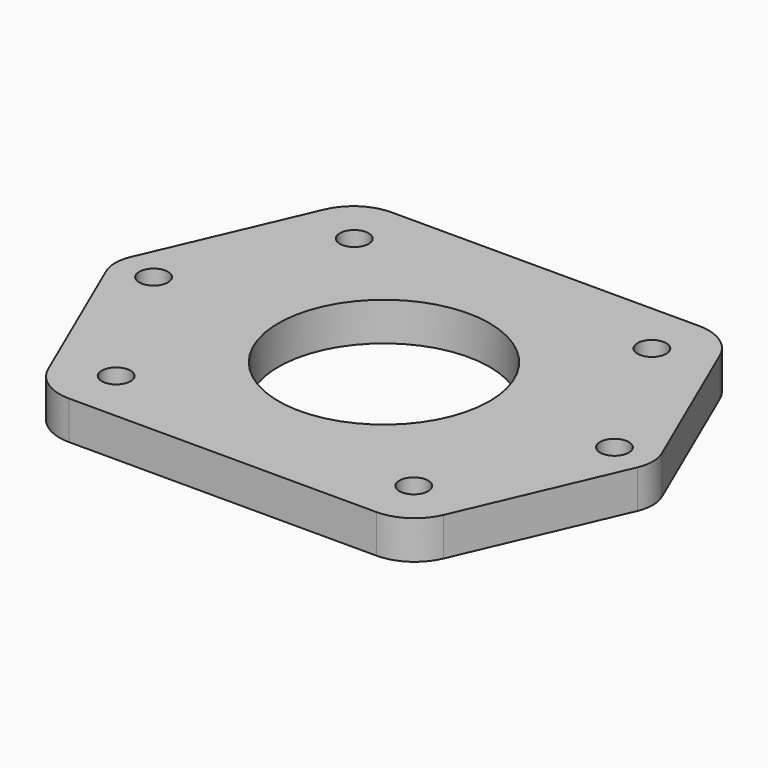
from build123d import *

# Parameters (mm, degrees)
F0_R     = 1.5
F0_R_2   = 11
F1_DEPTH = 4


with BuildPart() as f1:
    # F0 (on Top) → F1 (new body)
    with BuildSketch(Plane.XY):
        with BuildLine():
            Line((-20.590143, 17.982571), (-27.672114, 1.586057))
            ThreePointArc((-27.672114, 1.586057), (-28, 0), (-27.672114, -1.586057))
            Line((-27.672114, -1.586057), (-20.590143, -17.982571))
            ThreePointArc((-20.590143, -17.982571), (-18.746556, -20.178089), (-16, -21))
            Line((-16, -21), (16, -21))
            ThreePointArc((16, -21), (18.746556, -20.178089), (20.590143, -17.982571))
            Line((20.590143, -17.982571), (27.672114, -1.586057))
            ThreePointArc((27.672114, -1.586057), (28, 0), (27.672114, 1.586057))
            Line((27.672114, 1.586057), (20.590143, 17.982571))
            ThreePointArc((20.590143, 17.982571), (18.746556, 20.178089), (16, 21))
            Line((16, 21), (-16, 21))
            ThreePointArc((-16, 21), (-18.746556, 20.178089), (-20.590143, 17.982571))
        make_face()
        with Locations((-15.5, -15.5)):
            Circle(F0_R, mode=Mode.SUBTRACT)
        with Locations((15.5, -15.5)):
            Circle(F0_R, mode=Mode.SUBTRACT)
        with Locations((-24, 0)):
            Circle(F0_R, mode=Mode.SUBTRACT)
        with Locations((-15.5, 15.5)):
            Circle(F0_R, mode=Mode.SUBTRACT)
        Circle(F0_R_2, mode=Mode.SUBTRACT)
        with Locations((24, 0)):
            Circle(F0_R, mode=Mode.SUBTRACT)
        with Locations((15.5, 15.5)):
            Circle(F0_R, mode=Mode.SUBTRACT)
    extrude(amount=F1_DEPTH)


solid = f1.part
